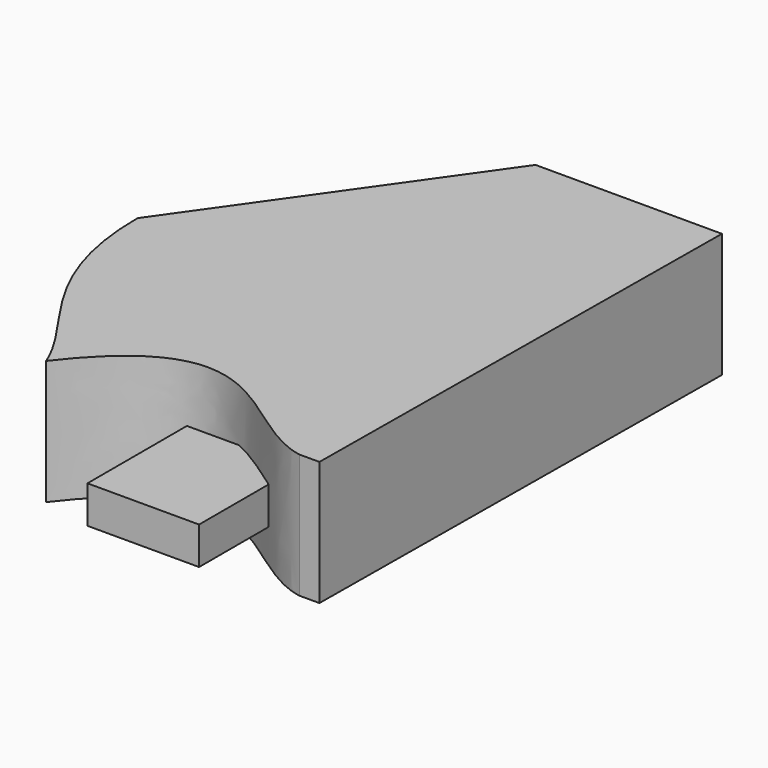
from build123d import *

# Parameters (mm, degrees)
F1_DEPTH = 25.4
F2_W     = 22.812813
F2_H     = 7.650941
F3_DEPTH = 12.7


with BuildPart() as f1:
    # F0 (on Top) → F1 (new body)
    with BuildSketch(Plane.XY):
        with BuildLine():
            add(Edge.make_bspline(
                [(19.43541, -0.097624), (43.174781, 31.007433), (56.550881, 2.538662), (71.190441, -0.097624)],
                knots=[0, 0, 0, 0, 51.129066, 51.129066, 51.129066, 51.129066], degree=3))
            Line((71.190441, -0.097624), (75.299167, -0.097624))
            Line((75.299167, -0.097624), (76.2, 101.6))
            Line((76.2, 101.6), (38.1, 101.6))
            Line((38.1, 101.6), (0, 47.567077))
            add(Edge.make_bspline(
                [(0, 47.567077), (0, 21.627648), (14.581611, 12.410692), (19.43541, -0.097624)],
                knots=[0, 0, 0, 0, 51.474837, 51.474837, 51.474837, 51.474837], degree=3))
        make_face()
    extrude(amount=F1_DEPTH)

    # F2 (on face) → F3 (join, symmetric)
    with BuildSketch(Plane.XZ.offset(0.097624)):
        with Locations((49.458019, 10.776184)):
            Rectangle(F2_W, F2_H)
    extrude(amount=F3_DEPTH, both=True)


solid = f1.part
